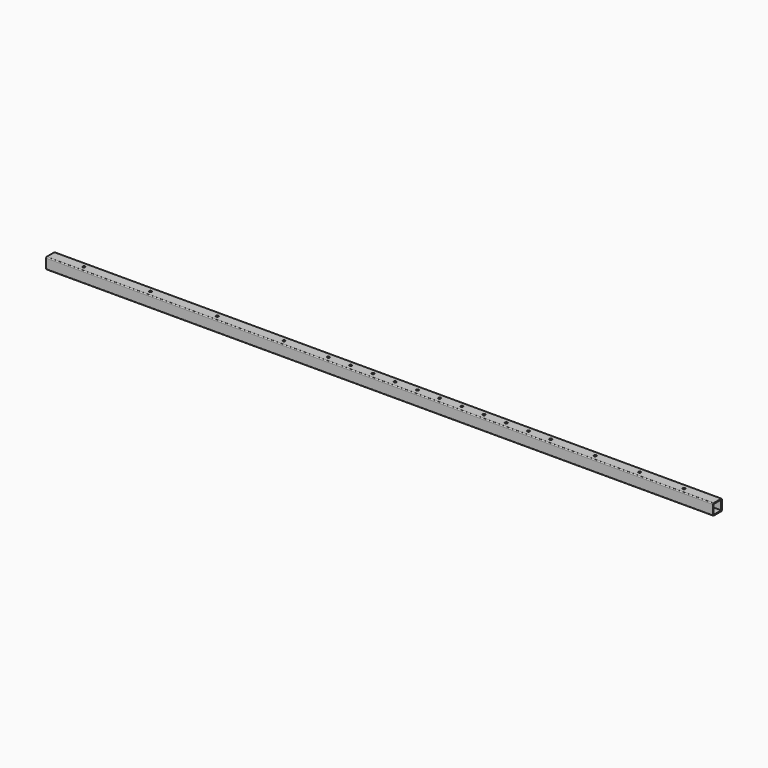
from build123d import *

# Parameters (mm, degrees)
F0_W     = 42
F0_H     = 42
F1_DEPTH = 3000
F2_R     = 5.5
F3_DEPTH = 25


with BuildPart() as f1:
    # F0 (on Right) → F1 (new body)
    with BuildSketch(Plane.YZ):
        with BuildLine():
            ThreePointArc((0, 4), (1.171573, 1.171573), (4, 0))
            Line((4, 0), (46, 0))
            ThreePointArc((46, 0), (48.828427, 1.171573), (50, 4))
            Line((50, 4), (50, 46))
            ThreePointArc((50, 46), (48.828427, 48.828427), (46, 50))
            Line((46, 50), (4, 50))
            ThreePointArc((4, 50), (1.171573, 48.828427), (0, 46))
            Line((0, 46), (0, 4))
        make_face()
        with Locations((25, 25)):
            Rectangle(F0_W, F0_H, mode=Mode.SUBTRACT)
    extrude(amount=F1_DEPTH)

    # F2 (on face) → F3 (cut)
    with BuildSketch(Plane.XY.offset(50)):
        with Locations((150, 25)):
            Circle(F2_R)
        with Locations((450, 25)):
            Circle(F2_R)
        with Locations((750, 25)):
            Circle(F2_R)
        with Locations((1050, 25)):
            Circle(F2_R)
        with Locations((1250, 25)):
            Circle(F2_R)
        with Locations((1350, 25)):
            Circle(F2_R)
        with Locations((1550, 25)):
            Circle(F2_R)
        with Locations((1450, 25)):
            Circle(F2_R)
        with Locations((1650, 25)):
            Circle(F2_R)
        with Locations((1750, 25)):
            Circle(F2_R)
        with Locations((1850, 25)):
            Circle(F2_R)
        with Locations((1950, 25)):
            Circle(F2_R)
        with Locations((2050, 25)):
            Circle(F2_R)
        with Locations((2150, 25)):
            Circle(F2_R)
        with Locations((2250, 25)):
            Circle(F2_R)
        with Locations((2450, 25)):
            Circle(F2_R)
        with Locations((2650, 25)):
            Circle(F2_R)
        with Locations((2850, 25)):
            Circle(F2_R)
    extrude(amount=-F3_DEPTH, mode=Mode.SUBTRACT)


solid = f1.part
